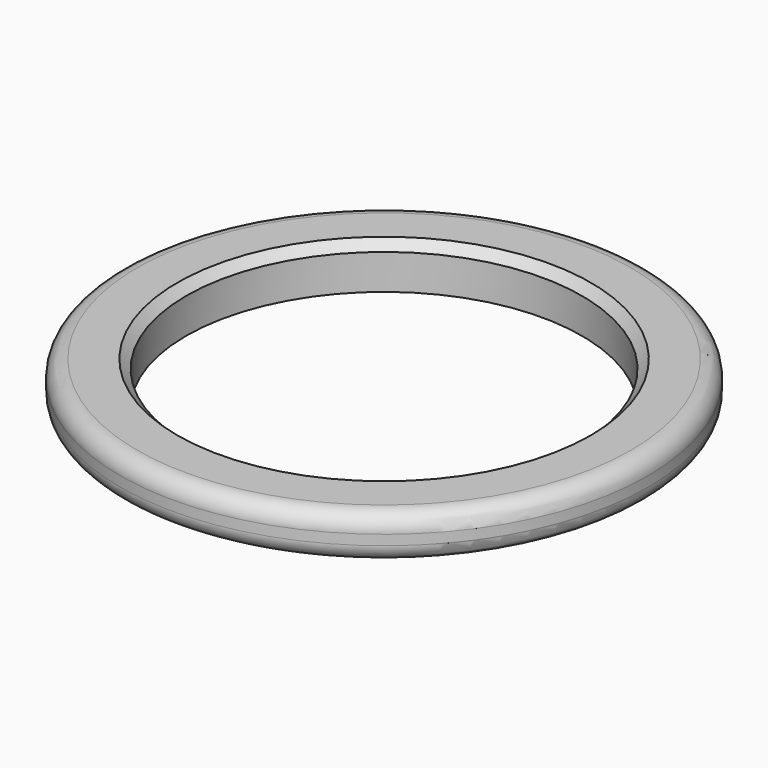
from build123d import *

# Parameters (mm, degrees)
F0_R     = 15
F0_R_2   = 11.25
F1_DEPTH = 2.5
F2_SIZE  = 0.5
F3_R     = 0.964531


with BuildPart() as f1:
    # F0 (on Top) → F1 (new body)
    with BuildSketch(Plane.XY):
        Circle(F0_R)
        Circle(F0_R_2, mode=Mode.SUBTRACT)
    extrude(amount=F1_DEPTH)

    # F2
    f2_edges = [f1.edges().sort_by_distance(p)[0] for p in [
        (-11.25, 0, 2.5),
    ]]
    chamfer(f2_edges, length=F2_SIZE)

    # F3
    f3_edges = [f1.edges().sort_by_distance(p)[0] for p in [
        (-15, 0, 2.5),
        (-15, 0, 0),
    ]]
    fillet(f3_edges, radius=F3_R)


solid = f1.part
